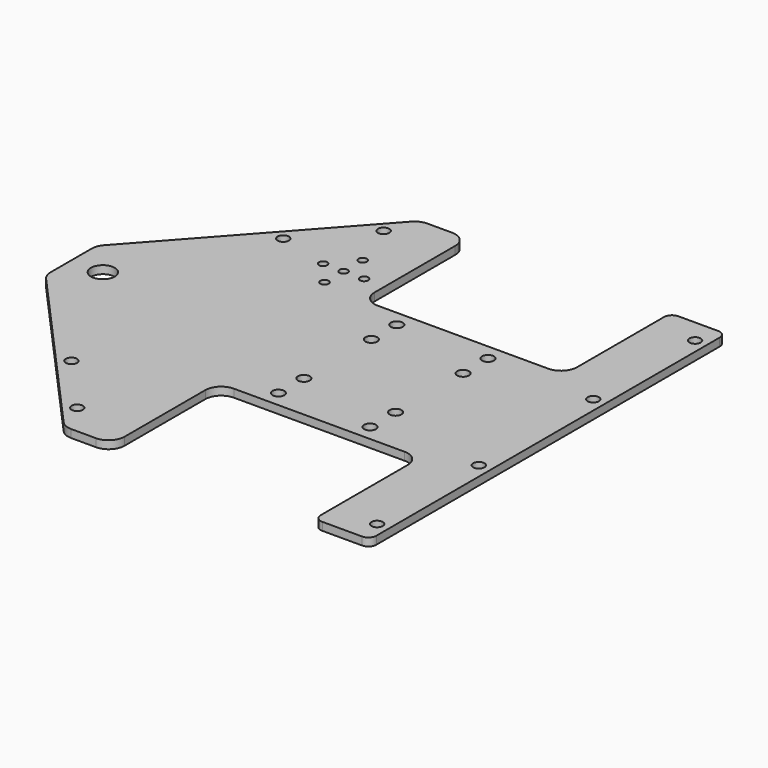
from build123d import *

# Parameters (mm, degrees)
SKETCH_R        = 2.3622
SKETCH_R_2      = 4.7625
PAD_DEPTH       = 3.175
FILLET_R        = 6.35
FILLET001_R     = 6.35
FILLET002_R     = 6.35
FILLET003_R     = 6.35
FILLET004_R     = 6.35
FILLET005_R     = 3.175
FILLET006_R     = 3.175
FILLET007_R     = 6.35
FILLET008_R     = 6.35
FILLET009_R     = 6.35
FILLET010_R     = 6.35
FILLET011_R     = 6.35
FILLET012_R     = 3.175
FILLET013_R     = 3.175
SKETCH001_R     = 1.651
POCKET_DEPTH    = 3.176
SKETCH002_R     = 2.2479
POCKET001_DEPTH = 3.176
SKETCH003_R     = 2.2479
POCKET002_DEPTH = 4.99999


with BuildPart() as part:
    # Sketch → Pad (new body)
    with BuildSketch(Plane(origin=(-14.3421, 44.2432, 43.6758), x_dir=(1, 0, 0), z_dir=(0, 0, 1))):
        Polygon((40.4368, 35.9029), (-40.4368, 35.9029), (-40.4368, 88.9), (-59.4868, 88.9), (-127.8382, 12.7), (-127.8382, -12.7), (-59.4868, -88.9), (-40.4368, -88.9), (-40.4368, -35.9029), (40.4368, -35.9029), (40.4368, -88.9), (62.6618, -88.9), (62.6618, 88.9), (40.4368, 88.9), align=None)
        with Locations((-21.3868, 29.5529)):
            Circle(SKETCH_R, mode=Mode.SUBTRACT)
        with Locations((-21.3868, 16.8529)):
            Circle(SKETCH_R, mode=Mode.SUBTRACT)
        with Locations((-21.3868, -16.8529)):
            Circle(SKETCH_R, mode=Mode.SUBTRACT)
        with Locations((-21.3868, -29.5529)):
            Circle(SKETCH_R, mode=Mode.SUBTRACT)
        with Locations((15.0368, 29.5529)):
            Circle(SKETCH_R, mode=Mode.SUBTRACT)
        with Locations((15.24, 16.8529)):
            Circle(SKETCH_R, mode=Mode.SUBTRACT)
        with Locations((15.24, -16.8529)):
            Circle(SKETCH_R, mode=Mode.SUBTRACT)
        with Locations((15.24, -29.5529)):
            Circle(SKETCH_R, mode=Mode.SUBTRACT)
        with Locations((-115.1382, 0)):
            Circle(SKETCH_R_2, mode=Mode.SUBTRACT)
    extrude(amount=PAD_DEPTH)

    # Fillet
    fillet_edges = [part.edges().sort_by_distance(p)[0] for p in [
        (-142.1803, 31.5432, 45.2633),
    ]]
    fillet(fillet_edges, radius=FILLET_R)

    # Fillet001
    fillet001_edges = [part.edges().sort_by_distance(p)[0] for p in [
        (-73.8289, -44.6568, 45.2633),
    ]]
    fillet(fillet001_edges, radius=FILLET001_R)

    # Fillet002
    fillet002_edges = [part.edges().sort_by_distance(p)[0] for p in [
        (-54.7789, -44.6568, 45.2633),
    ]]
    fillet(fillet002_edges, radius=FILLET002_R)

    # Fillet003
    fillet003_edges = [part.edges().sort_by_distance(p)[0] for p in [
        (-54.7789, 8.3403, 45.2633),
    ]]
    fillet(fillet003_edges, radius=FILLET003_R)

    # Fillet004
    fillet004_edges = [part.edges().sort_by_distance(p)[0] for p in [
        (26.0947, 8.3403, 45.2633),
    ]]
    fillet(fillet004_edges, radius=FILLET004_R)

    # Fillet005
    fillet005_edges = [part.edges().sort_by_distance(p)[0] for p in [
        (26.0947, -44.6568, 45.2633),
    ]]
    fillet(fillet005_edges, radius=FILLET005_R)

    # Fillet006
    fillet006_edges = [part.edges().sort_by_distance(p)[0] for p in [
        (48.3197, -44.6568, 45.2633),
    ]]
    fillet(fillet006_edges, radius=FILLET006_R)

    # Fillet007
    fillet007_edges = [part.edges().sort_by_distance(p)[0] for p in [
        (-142.1803, 56.9432, 45.2633),
    ]]
    fillet(fillet007_edges, radius=FILLET007_R)

    # Fillet008
    fillet008_edges = [part.edges().sort_by_distance(p)[0] for p in [
        (-73.8289, 133.1432, 45.2633),
    ]]
    fillet(fillet008_edges, radius=FILLET008_R)

    # Fillet009
    fillet009_edges = [part.edges().sort_by_distance(p)[0] for p in [
        (-54.7789, 133.1432, 45.2633),
    ]]
    fillet(fillet009_edges, radius=FILLET009_R)

    # Fillet010
    fillet010_edges = [part.edges().sort_by_distance(p)[0] for p in [
        (26.0947, 80.1461, 45.2633),
    ]]
    fillet(fillet010_edges, radius=FILLET010_R)

    # Fillet011
    fillet011_edges = [part.edges().sort_by_distance(p)[0] for p in [
        (-54.7789, 80.1461, 45.2633),
    ]]
    fillet(fillet011_edges, radius=FILLET011_R)

    # Fillet012
    fillet012_edges = [part.edges().sort_by_distance(p)[0] for p in [
        (26.0947, 133.1432, 45.2633),
    ]]
    fillet(fillet012_edges, radius=FILLET012_R)

    # Fillet013
    fillet013_edges = [part.edges().sort_by_distance(p)[0] for p in [
        (48.3197, 133.1432, 45.2633),
    ]]
    fillet(fillet013_edges, radius=FILLET013_R)

    # Sketch001 → Pocket (cut, through all)
    with BuildSketch(Plane(origin=(-14.3421, 44.2432, 46.8508), x_dir=(1, 0, 0), z_dir=(0, 0, 1))):
        with Locations((-56.906653, 47.390231)):
            Circle(SKETCH001_R)
        with Locations((-65.098153, 47.390231)):
            Circle(SKETCH001_R)
        with Locations((-56.906653, 56.915231)):
            Circle(SKETCH001_R)
        with Locations((-48.715153, 47.390231)):
            Circle(SKETCH001_R)
        with Locations((-56.906653, 37.865231)):
            Circle(SKETCH001_R)
    extrude(amount=-POCKET_DEPTH, mode=Mode.SUBTRACT)

    # Sketch002 → Pocket001 (cut, through all)
    with BuildSketch(Plane(origin=(-14.3421, 44.2432, 46.8508), x_dir=(1, 0, 0), z_dir=(0, 0, 1))):
        with Locations((-85.394727, -52.884764)):
            Circle(SKETCH002_R)
        with Locations((-64.1943, -76.519577)):
            Circle(SKETCH002_R)
        with Locations((-64.1943, 76.519577)):
            Circle(SKETCH002_R)
        with Locations((-85.394727, 52.884764)):
            Circle(SKETCH002_R)
    extrude(amount=-POCKET001_DEPTH, mode=Mode.SUBTRACT)

    # Sketch003 → Pocket002 (cut)
    with BuildSketch(Plane(origin=(-14.3421, 44.2432, 46.8508), x_dir=(1, 0, 0), z_dir=(0, 0, 1))):
        with Locations((57.8993, -79.375)):
            Circle(SKETCH003_R)
        with Locations((57.8993, -28.575)):
            Circle(SKETCH003_R)
        with Locations((57.8993, 79.375)):
            Circle(SKETCH003_R)
        with Locations((57.8993, 28.575)):
            Circle(SKETCH003_R)
    extrude(amount=-POCKET002_DEPTH, mode=Mode.SUBTRACT)


solid = part.part
